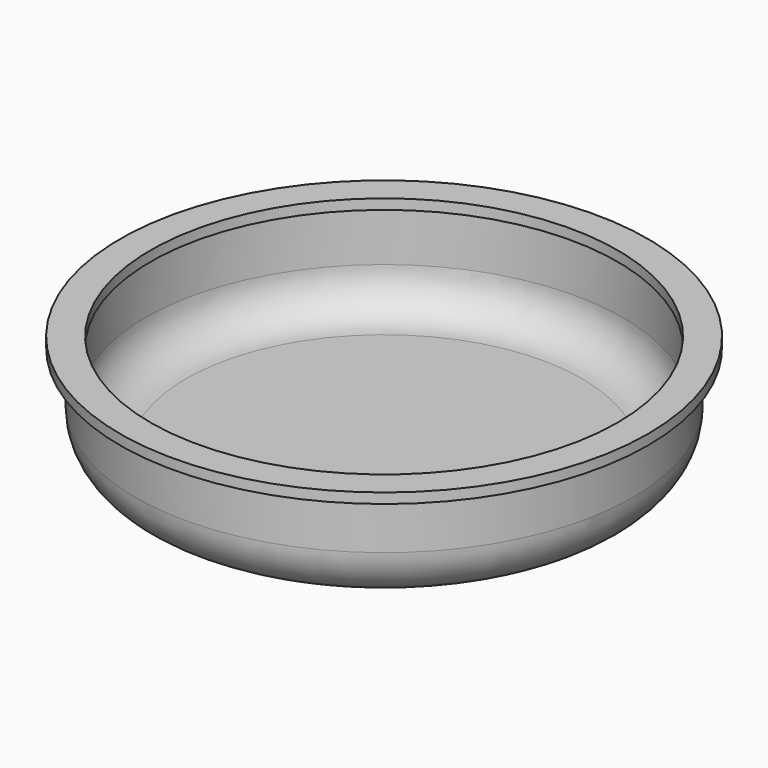
from build123d import *

# Parameters (mm, degrees)
SKETCH_R      = 24.5
PAD_DEPTH     = 10
FILLET_R      = 5
THICKNESS_T   = -1
SKETCH001_R   = 26
SKETCH001_R_2 = 23
PAD001_DEPTH  = 1


with BuildPart() as part:
    # Sketch → Pad (new body)
    with BuildSketch(Plane.XY):
        Circle(SKETCH_R)
    extrude(amount=PAD_DEPTH)

    # Fillet
    fillet_edges = [part.edges().sort_by_distance(p)[0] for p in [
        (-24.5, 0, 0),
    ]]
    fillet(fillet_edges, radius=FILLET_R)

    # Thickness
    thickness_openings = [part.faces().sort_by_distance(p)[0] for p in [
        (0, 0, 10),
    ]]
    offset(amount=THICKNESS_T, openings=thickness_openings)

    # Sketch001 → Pad001 (new body)
    with BuildSketch(Plane.XY.offset(10)):
        Circle(SKETCH001_R)
        Circle(SKETCH001_R_2, mode=Mode.SUBTRACT)
    extrude(amount=PAD001_DEPTH)


solid = part.part
